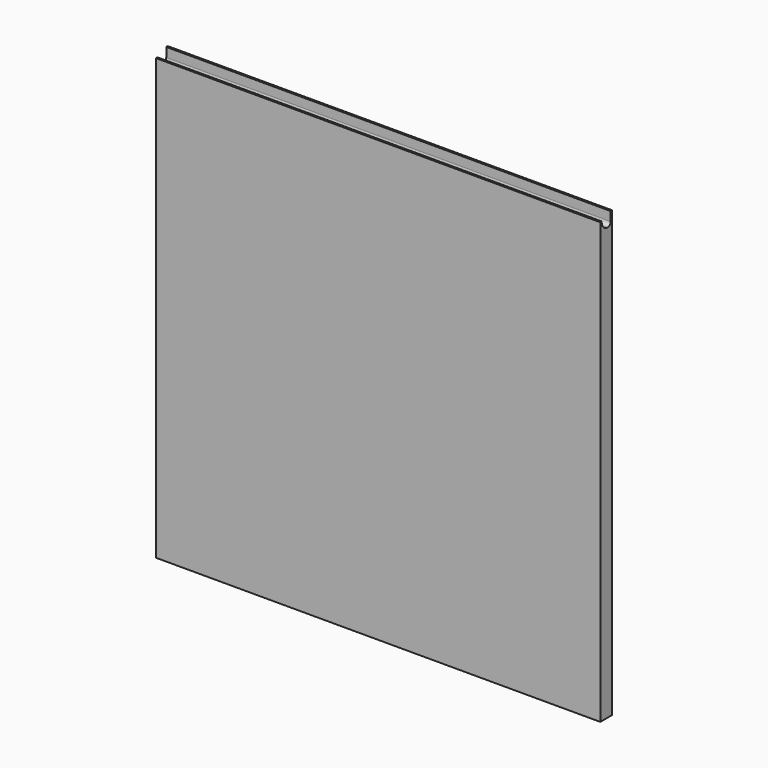
from build123d import *

# Parameters (mm, degrees)
F0_W     = 60
F0_H     = 60
F1_DEPTH = 2
F3_DEPTH = 60


with BuildPart() as f1:
    # F0 (on Front) → F1 (new body)
    with BuildSketch(Plane.XZ):
        with Locations((-13.071862, 18.687097)):
            Rectangle(F0_W, F0_H)
    extrude(amount=F1_DEPTH)

    # F2 (on face) → F3 (cut)
    with BuildSketch(Plane.YZ.offset(16.928138)):
        with BuildLine():
            Line((-0.247225, 47.446228), (-0.247225, 48.687097))
            Line((-0.247225, 48.687097), (-2, 48.687097))
            Line((-2, 48.687097), (-2, 48.074059))
            Line((-2, 48.074059), (-1.756481, 48.074059))
            Line((-1.756481, 48.074059), (-1.756481, 47.946228))
            ThreePointArc((-1.756481, 47.946228), (-1.463588, 47.239121), (-0.756481, 46.946228))
            Line((-0.756481, 46.946228), (-0.747225, 46.946228))
            ThreePointArc((-0.747225, 46.946228), (-0.393672, 47.092674), (-0.247225, 47.446228))
        make_face()
    extrude(amount=-F3_DEPTH, mode=Mode.SUBTRACT)


solid = f1.part
